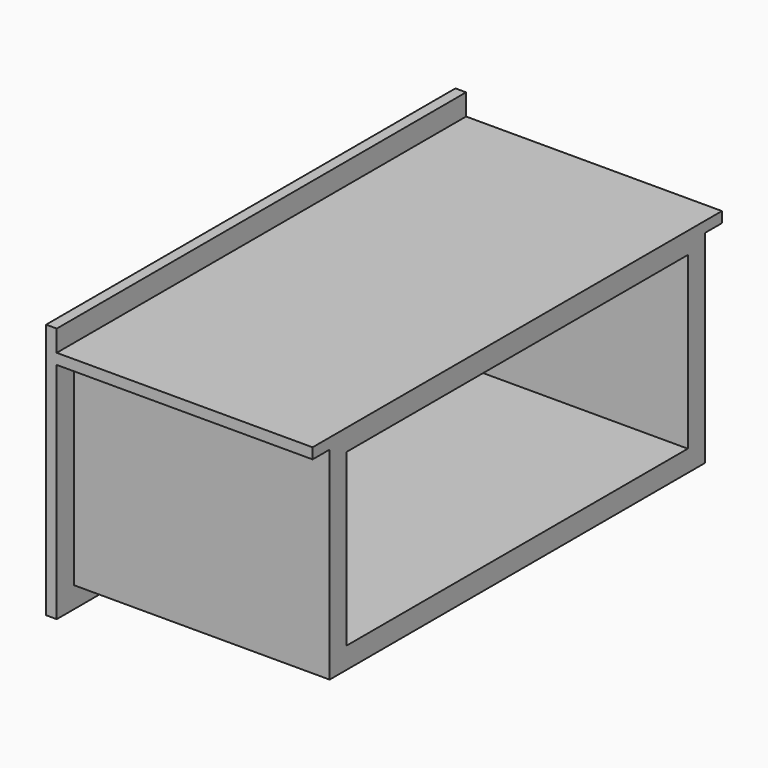
from build123d import *

# Parameters (mm, degrees)
F0_W     = 25.4
F0_H     = 1219.2
F1_DEPTH = 609.6
F2_W     = 1117.6
F2_H     = 508
F2_W_2   = 1016
F2_H_2   = 406.4
F3_DEPTH = 609.6
F4_W     = 406.4
F4_H     = 406.4
F5_DEPTH = 25.4
F6_W     = 609.6
F6_H     = 25.4
F7_DEPTH = 50.8
F8_W     = 609.6
F8_H     = 25.4
F9_DEPTH = 50.8


with BuildPart() as f1:
    # F0 (on Top) → F1 (new body)
    with BuildSketch(Plane.XY):
        with Locations((12.7, 609.6)):
            Rectangle(F0_W, F0_H)
    extrude(amount=F1_DEPTH)

    # F2 (on face) → F3 (join)
    with BuildSketch(Plane.YZ.offset(25.4)):
        with Locations((609.6, 304.8)):
            Rectangle(F2_W, F2_H)
        with Locations((609.6, 304.8)):
            Rectangle(F2_W_2, F2_H_2, mode=Mode.SUBTRACT)
    extrude(amount=F3_DEPTH)

    # F4 (on face) → F5 (join)
    with BuildSketch(Plane(origin=(0, 0, 0), x_dir=(0, -1, 0), z_dir=(-1, 0, 0))):
        with Locations((-914.4, 304.8)):
            Rectangle(F4_W, F4_H)
        with Locations((-304.8, 304.8)):
            Rectangle(F4_W, F4_H)
    extrude(amount=F5_DEPTH)

    # F6 (on face) → F7 (join)
    with BuildSketch(Plane.XZ.offset(-50.8)):
        with Locations((330.2, 546.1)):
            Rectangle(F6_W, F6_H)
    extrude(amount=F7_DEPTH)

    # F8 (on face) → F9 (join)
    with BuildSketch(Plane(origin=(0, 1168.4, 0), x_dir=(-1, 0, 0), z_dir=(0, 1, 0))):
        with Locations((-330.2, 546.1)):
            Rectangle(F8_W, F8_H)
    extrude(amount=F9_DEPTH)


solid = f1.part
